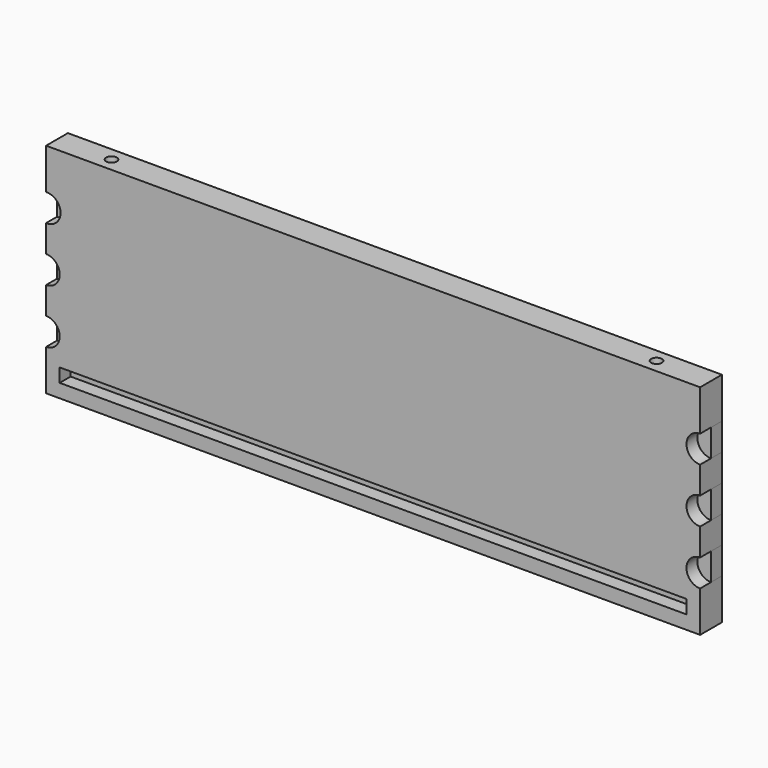
from build123d import *

# Parameters (mm, degrees)
F0_W     = 292.1
F0_H     = 6.35
F1_DEPTH = 6.35
F2_DEPTH = 6.35
F3_DEPTH = 12.7
F4_R     = 2.5
F5_DEPTH = 6.35


with BuildPart() as f1:
    # F0 (on Front) → F1 (new body)
    with BuildSketch(Plane.XZ):
        with Locations((64.085933, -25.380944)):
            Rectangle(F0_W, F0_H)
    extrude(amount=F1_DEPTH)


with BuildPart() as f2:
    # F0 (on Front) → F2 (new body)
    with BuildSketch(Plane.XZ):
        with BuildLine():
            ThreePointArc((-88.314067, -15.855944), (-81.964067, -9.505944), (-88.314067, -3.155944))
            Line((-88.314067, -3.155944), (-88.314067, -15.855944))
        make_face()
        with BuildLine():
            ThreePointArc((-88.314067, 9.544056), (-81.964067, 15.894056), (-88.314067, 22.244056))
            Line((-88.314067, 22.244056), (-88.314067, 9.544056))
        make_face()
        with BuildLine():
            ThreePointArc((-88.314067, 34.944056), (-81.561473, 41.294056), (-88.314067, 47.644056))
            Line((-88.314067, 47.644056), (-88.314067, 34.944056))
        make_face()
        with BuildLine():
            Line((216.485933, 34.944056), (216.485933, 47.644056))
            ThreePointArc((216.485933, 47.644056), (210.135933, 41.294056), (216.485933, 34.944056))
        make_face()
        with BuildLine():
            Line((216.485933, 9.544056), (216.485933, 22.244056))
            ThreePointArc((216.485933, 22.244056), (210.135933, 15.894056), (216.485933, 9.544056))
        make_face()
        with BuildLine():
            Line((216.485933, -15.855944), (216.485933, -3.155944))
            ThreePointArc((216.485933, -3.155944), (210.135933, -9.505944), (216.485933, -15.855944))
        make_face()
    extrude(amount=F2_DEPTH)


with BuildPart() as f3:
    # F0 (on Front) → F3 (new body)
    with BuildSketch(Plane.XZ):
        with BuildLine():
            Line((216.485933, 66.694056), (-88.314067, 66.694056))
            Line((-88.314067, 66.694056), (-88.314067, 47.644056))
            ThreePointArc((-88.314067, 47.644056), (-81.561473, 41.294056), (-88.314067, 34.944056))
            Line((-88.314067, 34.944056), (-88.314067, 22.244056))
            ThreePointArc((-88.314067, 22.244056), (-81.964067, 15.894056), (-88.314067, 9.544056))
            Line((-88.314067, 9.544056), (-88.314067, -3.155944))
            ThreePointArc((-88.314067, -3.155944), (-81.964067, -9.505944), (-88.314067, -15.855944))
            Line((-88.314067, -15.855944), (-88.314067, -34.905944))
            Line((-88.314067, -34.905944), (216.485933, -34.905944))
            Line((216.485933, -34.905944), (216.485933, -15.855944))
            ThreePointArc((216.485933, -15.855944), (210.135933, -9.505944), (216.485933, -3.155944))
            Line((216.485933, -3.155944), (216.485933, 9.544056))
            ThreePointArc((216.485933, 9.544056), (210.135933, 15.894056), (216.485933, 22.244056))
            Line((216.485933, 22.244056), (216.485933, 34.944056))
            ThreePointArc((216.485933, 34.944056), (210.135933, 41.294056), (216.485933, 47.644056))
            Line((216.485933, 47.644056), (216.485933, 66.694056))
        make_face()
        with Locations((64.085933, -25.380944)):
            Rectangle(F0_W, F0_H, mode=Mode.SUBTRACT)
    extrude(amount=F3_DEPTH)

    # F4 (on face) → F5 (cut)
    with BuildSketch(Plane.XY.offset(66.694056)):
        with Locations((191.085933, -6.35)):
            Circle(F4_R)
        with Locations((-62.914067, -6.35)):
            Circle(F4_R)
    extrude(amount=-F5_DEPTH, mode=Mode.SUBTRACT)


solid = Compound([f1.part, f2.part, f3.part])
